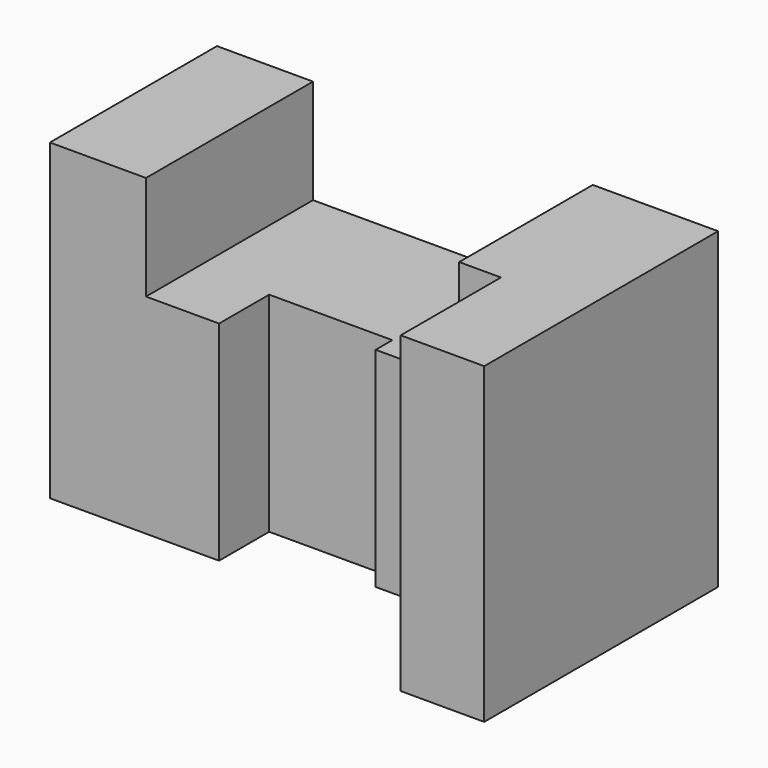
from build123d import *

# Parameters (mm, degrees)
F1_DEPTH = 75
F3_DEPTH = 25


with BuildPart() as f1:
    # F0 (on Top) → F1 (new body)
    with BuildSketch(Plane.XY):
        Polygon((0, 50), (0, 0), (40.5, 0), (40.5, 15), (70, 15), (70, 10), (100, 10), (100, -20), (120, -20), (120, 50), align=None)
    extrude(amount=F1_DEPTH)

    # F2 (on face) → F3 (cut)
    with BuildSketch(Plane.XY.offset(75)):
        Polygon((23, 50), (23, 0), (40.5, 0), (40.5, 15), (70, 15), (70, 10), (90, 10), (90, 50), align=None)
    extrude(amount=-F3_DEPTH, mode=Mode.SUBTRACT)


solid = f1.part
